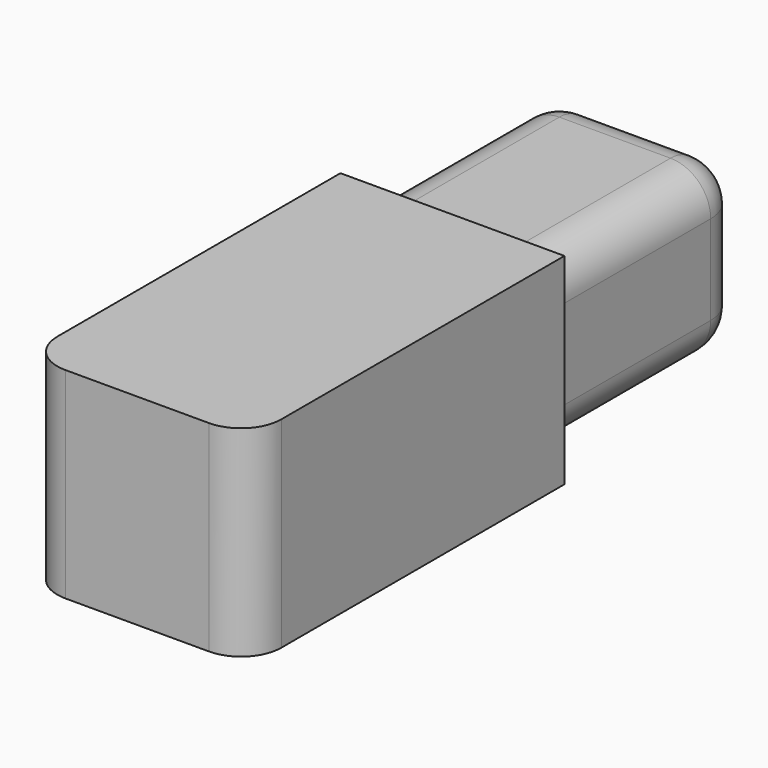
from build123d import *

# Parameters (mm, degrees)
F0_W     = 22.28
F0_H     = 39.2
F1_DEPTH = 20
F2_R     = 4
F3_W     = 19.058216
F3_H     = 16.900683
F4_DEPTH = 24.2
F5_R     = 4
F6_R     = 4


with BuildPart() as f1:
    # F0 (on Top) → F1 (new body)
    with BuildSketch(Plane.XY):
        Rectangle(F0_W, F0_H)
    extrude(amount=F1_DEPTH)

    # F2
    f2_edges = [f1.edges().sort_by_distance(p)[0] for p in [
        (-11.14, -19.6, 10),
        (11.14, -19.6, 10),
    ]]
    fillet(f2_edges, radius=F2_R)

    # F3 (on face) → F4 (join)
    with BuildSketch(Plane(origin=(0, 19.6, 0), x_dir=(-1, 0, 0), z_dir=(0, 1, 0))):
        with Locations((0, 10.068494)):
            Rectangle(F3_W, F3_H)
    extrude(amount=F4_DEPTH)

    # F5
    f5_edges = [f1.edges().sort_by_distance(p)[0] for p in [
        (-9.529108, 31.7, 1.618153),
        (9.529108, 31.7, 1.618153),
        (-9.529108, 31.7, 18.518836),
        (9.529108, 31.7, 18.518836),
    ]]
    fillet(f5_edges, radius=F5_R)

    # F6
    f6_edges = [f1.edges().sort_by_distance(p)[0] for p in [
        (9.529108, 43.8, 10.068495),
        (0, 43.8, 18.518836),
        (-9.529108, 43.8, 10.068495),
        (0, 43.8, 1.618153),
    ]]
    fillet(f6_edges, radius=F6_R)


solid = f1.part
